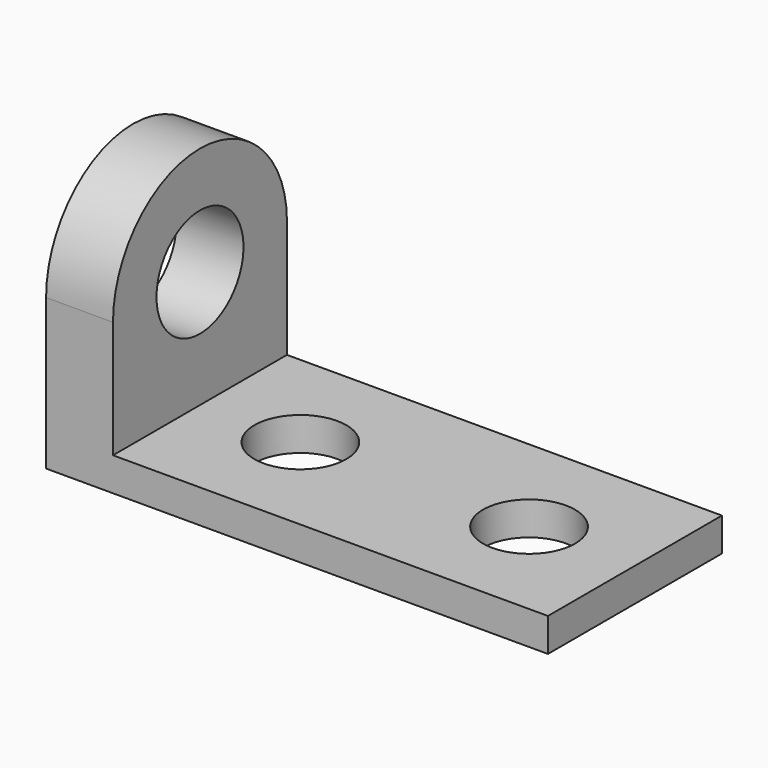
from build123d import *

# Parameters (mm, degrees)
F1_DEPTH = 82.55
F2_R     = 17.4625
F3_DEPTH = 25.4
F5_DEPTH = 25.4
F6_R     = 20.6375
F7_DEPTH = 25.4


with BuildPart() as f1:
    # F0 (on Front) → F1 (new body)
    with BuildSketch(Plane.XZ):
        Polygon((0, 107.95), (0, 0), (190.5, 0), (190.5, 12.7), (25.4, 12.7), (25.4, 107.95), align=None)
    extrude(amount=F1_DEPTH)

    # F2 (on face) → F3 (cut)
    with BuildSketch(Plane.XY.offset(12.7)):
        with Locations((63.5, -41.275)):
            Circle(F2_R)
        with Locations((150.305644, -41.275)):
            Circle(F2_R)
    extrude(amount=-F3_DEPTH, mode=Mode.SUBTRACT)

    # F4 (on face) → F5 (cut)
    with BuildSketch(Plane(origin=(0, 0, 0), x_dir=(0, -1, 0), z_dir=(-1, 0, 0))):
        with BuildLine():
            ThreePointArc((0, 57.15), (41.275, 98.425), (82.55, 57.15))
            Line((82.55, 57.15), (82.55, 107.95))
            Line((82.55, 107.95), (0, 107.95))
            Line((0, 107.95), (0, 57.15))
        make_face()
    extrude(amount=-F5_DEPTH, mode=Mode.SUBTRACT)

    # F6 (on face) → F7 (cut, through all)
    with BuildSketch(Plane(origin=(0, 0, 0), x_dir=(0, -1, 0), z_dir=(-1, 0, 0))):
        with Locations((41.275, 57.15)):
            Circle(F6_R)
    extrude(amount=-F7_DEPTH, mode=Mode.SUBTRACT)


solid = f1.part
